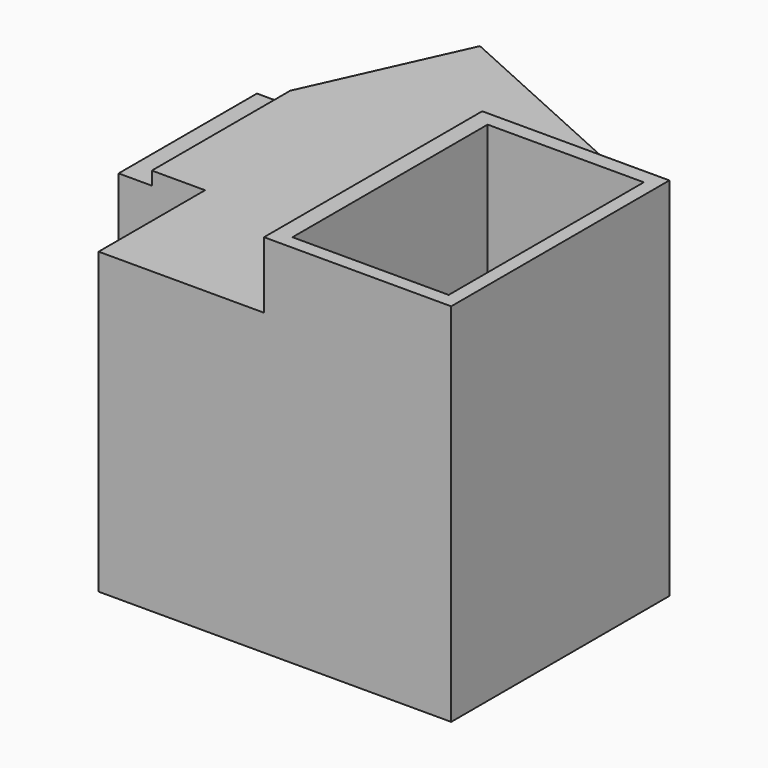
from build123d import *

# Parameters (mm, degrees)
F0_W     = 714.670822
F0_H     = 1041.4
F1_DEPTH = 1397
F2_DEPTH = 1143
F0_W_2   = 127
F0_H_2   = 660.4
F3_DEPTH = 1092.2
F4_W     = 596.427142
F4_H     = 931.297839
F5_DEPTH = 873.76


with BuildPart() as f1:
    # F0 (on Top) → F1 (new body)
    with BuildSketch(Plane.XY):
        with Locations((988.864589, 12.7)):
            Rectangle(F0_W, F0_H)
    extrude(amount=F1_DEPTH)

    # F0 (on Top) → F2 (join)
    with BuildSketch(Plane.XY):
        Polygon((-203.2, 0), (0, 0), (0, -508), (631.529178, -508), (631.529178, 533.4), (799.153613, 903.620216), (58.713181, 1238.869088), (-203.2, 660.4), align=None)
    extrude(amount=F2_DEPTH)

    # F0 (on Top) → F3 (join)
    with BuildSketch(Plane.XY):
        with Locations((-266.7, 330.2)):
            Rectangle(F0_W_2, F0_H_2)
    extrude(amount=F3_DEPTH)

    # F4 (on face) → F5 (cut)
    with BuildSketch(Plane.XY.offset(1397)):
        with Locations((996.125251, 10.54573)):
            Rectangle(F4_W, F4_H)
    extrude(amount=-F5_DEPTH, mode=Mode.SUBTRACT)


solid = f1.part
